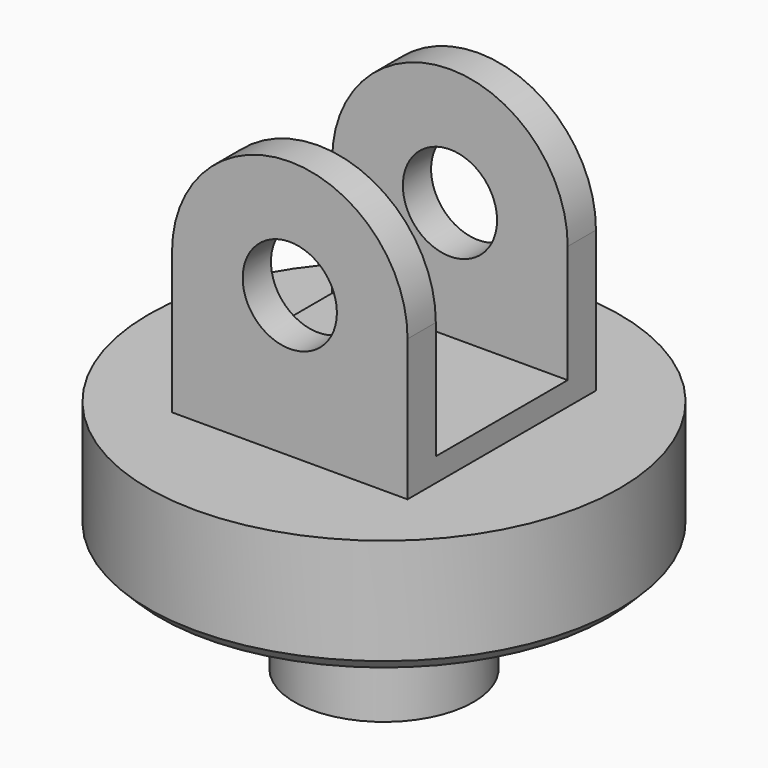
from build123d import *

# Parameters (mm, degrees)
SKETCH_R        = 100
PAD_DEPTH       = 50
CHAMFER_SIZE    = 5
SKETCH001_R     = 38
PAD001_DEPTH    = 50
SKETCH002_W     = 100
SKETCH002_H     = 100
PAD002_DEPTH    = 10
PAD003_DEPTH    = 50
SKETCH004_R     = 20
POCKET_DEPTH    = 101
SKETCH005_W     = 100
SKETCH005_H     = 101
POCKET001_DEPTH = 35


with BuildPart() as part:
    # Sketch → Pad (new body)
    with BuildSketch(Plane.XY):
        Circle(SKETCH_R)
    extrude(amount=PAD_DEPTH)

    # Chamfer
    chamfer_edges = [part.edges().sort_by_distance(p)[0] for p in [
        (-100, 0, 0),
    ]]
    chamfer(chamfer_edges, length=CHAMFER_SIZE)

    # Sketch001 (on Face4 of Chamfer) → Pad001 (join)
    with BuildSketch(Plane(origin=(0, 0, 0), x_dir=(1, 0, 0), z_dir=(0, 0, -1))):
        Circle(SKETCH001_R)
    extrude(amount=PAD001_DEPTH)

    # Sketch002 (on Face3 of Pad001) → Pad002 (join)
    with BuildSketch(Plane.XY.offset(50)):
        Rectangle(SKETCH002_W, SKETCH002_H)
    extrude(amount=PAD002_DEPTH)

    # Sketch003 → Pad003 (join, symmetric)
    with BuildSketch(Plane.XZ):
        with BuildLine():
            ThreePointArc((50, 110), (0, 160), (-50, 110))
            Line((-50, 60), (-50, 110))
            Line((50, 60), (-50, 60))
            Line((50, 110), (50, 60))
        make_face()
    extrude(amount=PAD003_DEPTH, both=True)

    # Sketch004 (on Face11 of Pad003) → Pocket (cut)
    with BuildSketch(Plane.XZ.offset(50)):
        with Locations((0, 110)):
            Circle(SKETCH004_R)
    extrude(amount=-POCKET_DEPTH, mode=Mode.SUBTRACT)

    # Sketch005 → Pocket001 (cut, symmetric)
    with BuildSketch(Plane.XZ):
        with Locations((0, 110.5)):
            Rectangle(SKETCH005_W, SKETCH005_H)
    extrude(amount=POCKET001_DEPTH, both=True, mode=Mode.SUBTRACT)


solid = part.part
